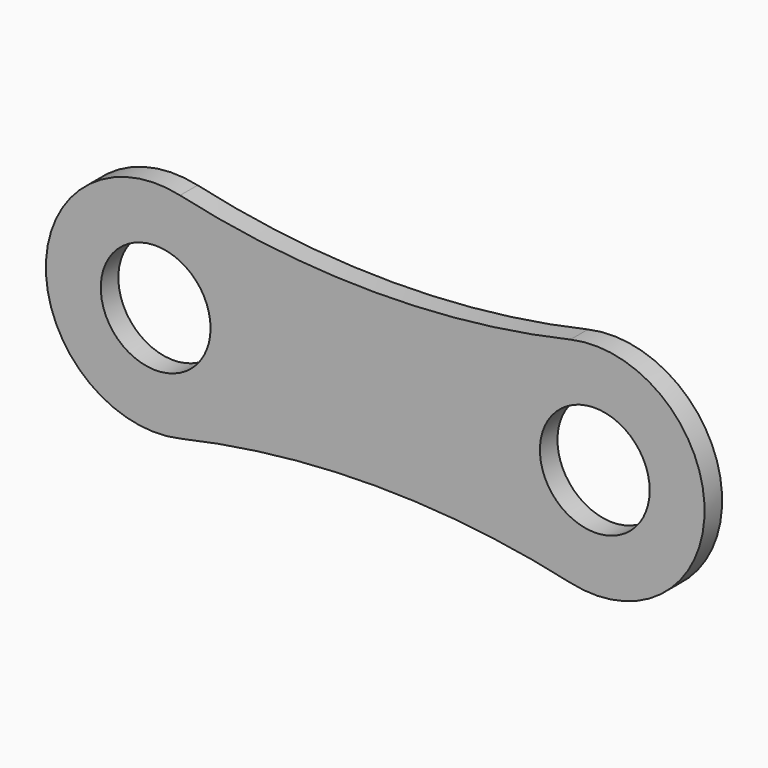
from build123d import *

# Parameters (mm, degrees)
F0_R     = 6.35
F1_DEPTH = 2.54


with BuildPart() as f1:
    # F0 (on Front) → F1 (new body)
    with BuildSketch(Plane.XZ):
        with BuildLine():
            ThreePointArc((22.577778, -12.38245), (38.1, 0), (22.577778, 12.38245))
            ThreePointArc((22.577778, 12.38245), (0, 9.842048), (-22.577778, 12.38245))
            ThreePointArc((-22.577778, 12.38245), (-38.1, 0), (-22.577778, -12.38245))
            ThreePointArc((-22.577778, -12.38245), (0, -9.842048), (22.577778, -12.38245))
        make_face()
        with Locations((-25.4, 0)):
            Circle(F0_R, mode=Mode.SUBTRACT)
        with Locations((25.4, 0)):
            Circle(F0_R, mode=Mode.SUBTRACT)
    extrude(amount=F1_DEPTH)


solid = f1.part
